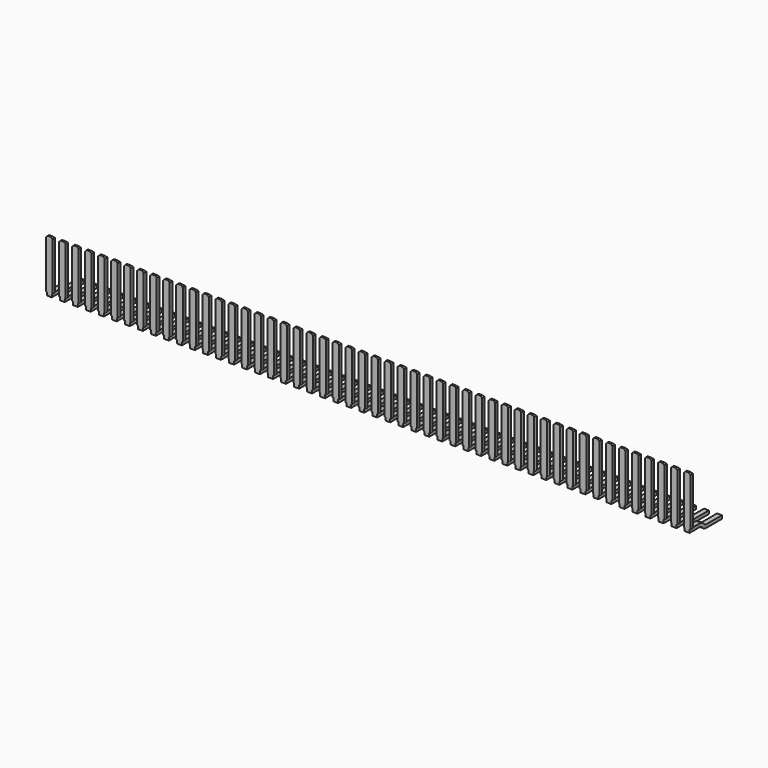
from build123d import *

# Parameters (mm, degrees)
PAD003_DEPTH         = 0.2
PAD003_DEPTH_BACK    = 0.2
SKETCH014_W          = 0.05
SKETCH014_H          = 0.45
POCKET009_DEPTH      = 0.001
POCKET009_DEPTH_BACK = 2.801
CHAMFER006_SIZE      = 0.1
ARRAY_X_COUNT        = 50
ARRAY_X_PITCH        = 0.8


with BuildPart() as array:
    # Sketch → Pad003 (new body, two sides)
    with BuildSketch(Plane.YZ) as pad003_sk:
        with BuildLine():
            Line((-0.315, 0.25), (-0.315, 3.5))
            Line((-0.315, 3.5), (-0.515, 3.5))
            Line((-0.515, 3.5), (-0.515, 0.45))
            Line((-0.515, 0.45), (-1.101472, 0.45))
            ThreePointArc((-1.101472, 0.45), (-1.254545, 0.419552), (-1.384315, 0.332843))
            Line((-1.384315, 0.332843), (-1.458579, 0.258579))
            ThreePointArc((-1.6, 0.2), (-1.523463, 0.215224), (-1.458579, 0.258579))
            Line((-1.6, 0.2), (-2.8, 0.2))
            Line((-2.8, 0.2), (-2.8, 0))
            Line((-2.8, 0), (-1.6, 0))
            ThreePointArc((-1.6, 0), (-1.446927, 0.030448), (-1.317157, 0.117157))
            Line((-1.317157, 0.117157), (-1.242894, 0.191421))
            ThreePointArc((-1.101472, 0.25), (-1.178009, 0.234776), (-1.242894, 0.191421))
            Line((-1.101472, 0.25), (-0.315, 0.25))
        make_face()
    extrude(amount=PAD003_DEPTH)
    extrude(pad003_sk.sketch, amount=-PAD003_DEPTH_BACK)

    # Sketch014 → Pocket009 (cut, two sides)
    with BuildSketch(Plane.XZ) as pocket009_sk:
        with Locations((-0.175, 0.225)):
            Rectangle(SKETCH014_W, SKETCH014_H)
        with Locations((0.175, 0.225)):
            Rectangle(SKETCH014_W, SKETCH014_H)
    extrude(amount=-POCKET009_DEPTH, mode=Mode.SUBTRACT)
    extrude(pocket009_sk.sketch, amount=POCKET009_DEPTH_BACK, mode=Mode.SUBTRACT)

    # Chamfer006
    chamfer006_edges = [array.edges().sort_by_distance(p)[0] for p in [
        (-0.2, -0.415, 3.5),
        (0, -0.515, 3.5),
        (0.2, -0.415, 3.5),
    ]]
    chamfer(chamfer006_edges, length=CHAMFER006_SIZE)

    # Array X: Array ×50


with BuildPart() as array_1:
    add(array.part)
    with Locations(*[(i * ARRAY_X_PITCH, 0, 0) for i in range(1, ARRAY_X_COUNT)]):
        add(array.part)


with BuildPart() as array_2:
    # Array placement: moved
    add(array_1.part.moved(Location((-19.6, 0, 0))))


with BuildPart() as part_mirroring001:
    # Part__Mirroring001: instance of Array
    add(array_2.part.mirror(Plane(origin=(0, 0, 0), x_dir=(1, 0, 0), z_dir=(0, 1, 0))))


solid = part_mirroring001.part
